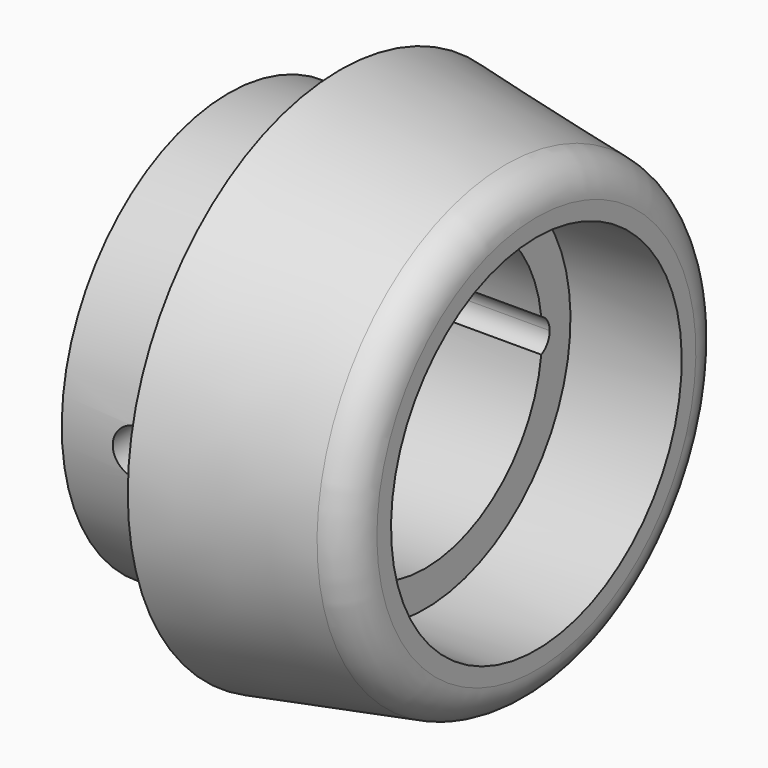
from build123d import *

# Parameters (mm, degrees)
F2_R          = 2.54
F4_DEPTH      = 21.083
F5_R          = 1.5875
F6_DEPTH      = 18.162
F6_DEPTH_BACK = 18.162


with BuildPart() as f1:
    # F0 (on Front) → F1 (revolve)
    with BuildSketch(Plane.XZ):
        Polygon((7.62, 18.161), (7.62, 14.2875), (0, 14.2875), (0, 10.0076), (13.462, 10.0076), (13.462, 12.446), (21.082, 12.446), (21.082, 15.7872861857), align=None)
    revolve(axis=Axis((10.541, 0, 0), (1, 0, 0)))

    # F2
    f2_edges = [f1.edges().sort_by_distance(p)[0] for p in [
        (21.082, 0, -15.787286),
    ]]
    fillet(f2_edges, radius=F2_R)

    # F3 (on Right) → F4 (cut, through all)
    with BuildSketch(Plane.YZ):
        with BuildLine():
            ThreePointArc((-9.94156, -1.1477989922), (-10.0076, 0), (-9.94156, 1.1477989922))
            ThreePointArc((-9.94156, 1.1477989922), (-10.668, 0), (-9.94156, -1.1477989922))
        make_face()
        with BuildLine():
            ThreePointArc((9.94156, 1.1477989922), (9.9910763588, 0.574848634), (10.0076, 0))
            ThreePointArc((10.0076, 0), (9.9910763588, -0.574848634), (9.94156, -1.1477989922))
            ThreePointArc((9.94156, -1.1477989922), (10.4711312129, -0.6791828914), (10.668, 0))
            ThreePointArc((10.668, 0), (10.4711312129, 0.6791828914), (9.94156, 1.1477989922))
        make_face()
    extrude(amount=F4_DEPTH, mode=Mode.SUBTRACT)

    # F5 (on Front) → F6 (cut, two sides)
    with BuildSketch(Plane.XZ) as f6_sk:
        with Locations((5.08, 0)):
            Circle(F5_R)
    extrude(amount=-F6_DEPTH, mode=Mode.SUBTRACT)
    extrude(f6_sk.sketch, amount=F6_DEPTH_BACK, mode=Mode.SUBTRACT)


solid = f1.part
